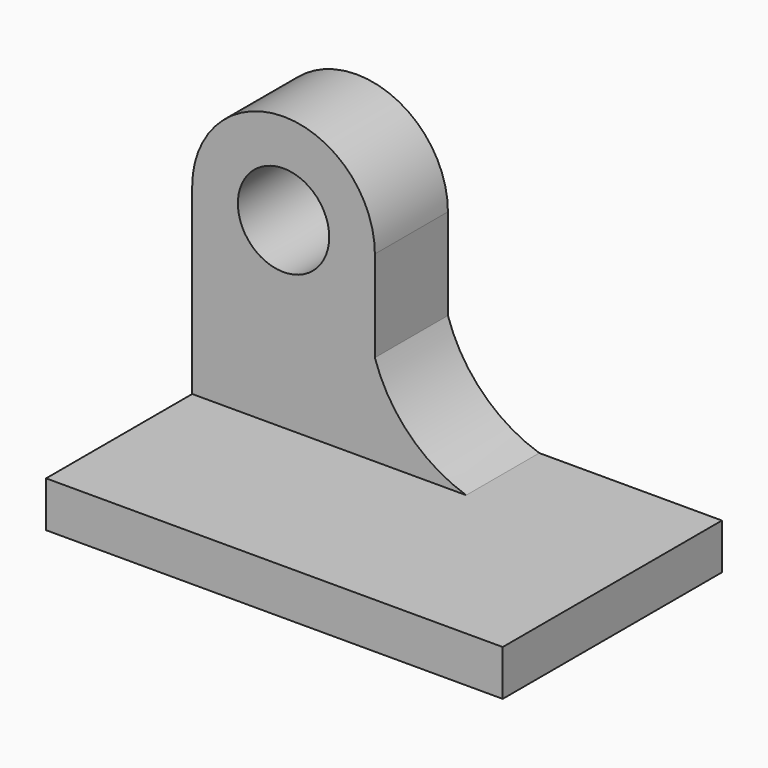
from build123d import *

# Parameters (mm, degrees)
F1_DEPTH = 12.7
F2_DEPTH = 12.7
F4_DEPTH = 25.4


with BuildPart() as f1:
    # F0 (on Front) → F1 (new body)
    with BuildSketch(Plane.XZ):
        with BuildLine():
            ThreePointArc((-62.636777, 25.519665), (-75.336777, 38.219665), (-88.036777, 25.519665))
            Line((-88.036777, 25.519665), (-81.686777, 25.519665))
            ThreePointArc((-81.686777, 25.519665), (-75.336777, 31.869665), (-68.986777, 25.519665))
            Line((-68.986777, 25.519665), (-62.636777, 25.519665))
        make_face()
        with BuildLine():
            Line((-81.686777, 25.519665), (-88.036777, 25.519665))
            Line((-88.036777, 25.519665), (-88.036777, -6.230335))
            Line((-88.036777, -6.230335), (-62.636777, -6.230335))
            Line((-62.636777, -6.230335), (-62.636777, 0.119665))
            Line((-62.636777, 0.119665), (-62.636777, 12.819665))
            Line((-62.636777, 12.819665), (-62.636777, 25.519665))
            Line((-62.636777, 25.519665), (-68.986777, 25.519665))
            ThreePointArc((-68.986777, 25.519665), (-75.336777, 19.169665), (-81.686777, 25.519665))
        make_face()
    extrude(amount=F1_DEPTH)

    # F0 (on Front) → F2 (join)
    with BuildSketch(Plane.XZ):
        with BuildLine():
            Line((-81.686777, 25.519665), (-88.036777, 25.519665))
            Line((-88.036777, 25.519665), (-88.036777, -6.230335))
            Line((-88.036777, -6.230335), (-62.636777, -6.230335))
            Line((-62.636777, -6.230335), (-62.636777, 0.119665))
            Line((-62.636777, 0.119665), (-62.636777, 12.819665))
            Line((-62.636777, 12.819665), (-62.636777, 25.519665))
            Line((-62.636777, 25.519665), (-68.986777, 25.519665))
            ThreePointArc((-68.986777, 25.519665), (-75.336777, 19.169665), (-81.686777, 25.519665))
        make_face()
        with BuildLine():
            ThreePointArc((-62.636777, 25.519665), (-75.336777, 38.219665), (-88.036777, 25.519665))
            Line((-88.036777, 25.519665), (-81.686777, 25.519665))
            ThreePointArc((-81.686777, 25.519665), (-75.336777, 31.869665), (-68.986777, 25.519665))
            Line((-68.986777, 25.519665), (-62.636777, 25.519665))
        make_face()
        Polygon((-62.636777, 0.119665), (-62.636777, -6.230335), (-24.536777, -6.230335), (-24.536777, 0.119665), (-49.936777, 0.119665), align=None)
        with BuildLine():
            ThreePointArc((-49.936777, 0.119665), (-57.818406, 4.938036), (-62.636777, 12.819665))
            Line((-62.636777, 12.819665), (-62.636777, 0.119665))
            Line((-62.636777, 0.119665), (-49.936777, 0.119665))
        make_face()
    extrude(amount=F2_DEPTH)

    # F3 (on face) → F4 (join)
    with BuildSketch(Plane.XZ.offset(12.7)):
        Polygon((-24.536777, -6.230335), (-24.536777, 0.119665), (-49.936777, 0.119665), (-88.036777, 0.119665), (-88.036777, -6.230335), align=None)
        Polygon((-24.536777, -6.230335), (-24.536777, 0.119665), (-49.936777, 0.119665), (-88.036777, 0.119665), (-88.036777, -6.230335), align=None)
    extrude(amount=F4_DEPTH)


solid = f1.part
